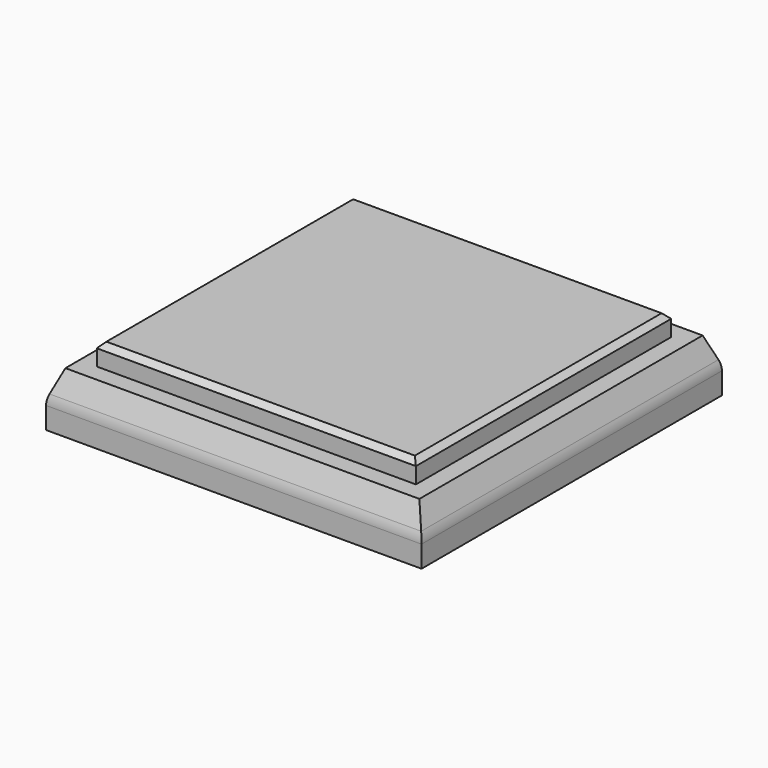
from build123d import *

# Parameters (mm, degrees)
F0_W     = 59.5
F0_H     = 59.5
F1_DEPTH = 14
F0_W_2   = 70
F0_H_2   = 70
F2_DEPTH = 10
F3_SIZE  = 1
F4_SIZE2 = 5
F4_SIZE  = 2
F5_R     = 5


with BuildPart() as f1:
    # F0 (on Top) → F1 (new body)
    with BuildSketch(Plane.XY):
        Rectangle(F0_W, F0_H)
    extrude(amount=F1_DEPTH)

    # F0 (on Top) → F2 (join)
    with BuildSketch(Plane.XY):
        Rectangle(F0_W_2, F0_H_2)
        Rectangle(F0_W, F0_H, mode=Mode.SUBTRACT)
    extrude(amount=F2_DEPTH)

    # F3
    f3_edges = [f1.edges().sort_by_distance(p)[0] for p in [
        (0, -29.75, 14),
        (29.75, 0, 14),
        (0, 29.75, 14),
        (-29.75, 0, 14),
    ]]
    chamfer(f3_edges, length=F3_SIZE)

    # F4
    f4_edges = [f1.edges().sort_by_distance(p)[0] for p in [
        (0, -35, 10),
        (35, 0, 10),
        (0, 35, 10),
        (-35, 0, 10),
    ]]
    f4_side = f1.faces().sort_by_distance((0, -34.010051, 10))[0]
    chamfer(f4_edges, length=F4_SIZE, length2=F4_SIZE2, reference=f4_side)

    # F5
    f5_edges = [f1.edges().sort_by_distance(p)[0] for p in [
        (35, 0, 5),
        (0, -35, 5),
        (-35, 0, 5),
        (0, 35, 5),
    ]]
    fillet(f5_edges, radius=F5_R)


solid = f1.part
